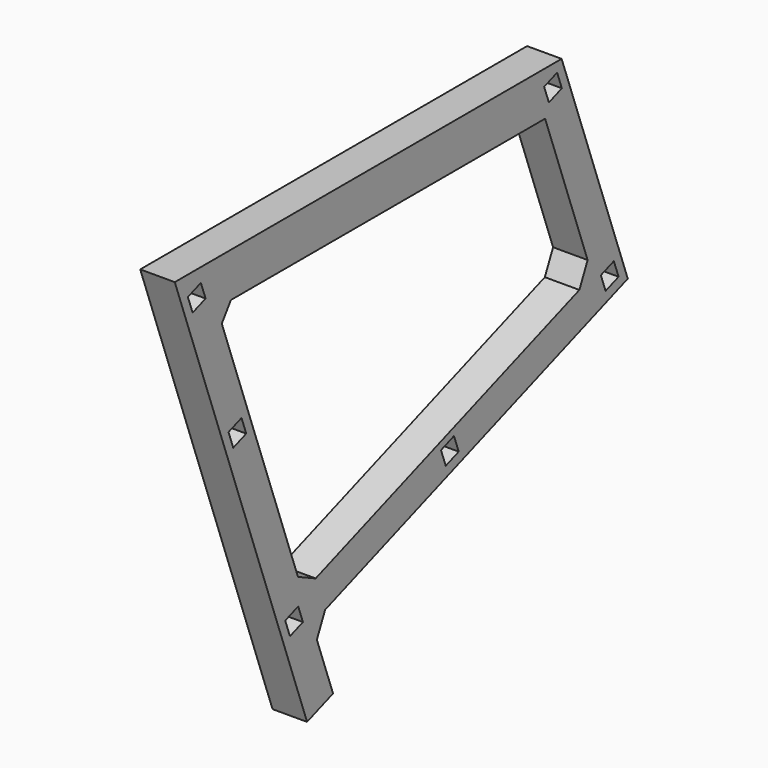
from build123d import *

# Parameters (mm, degrees)
PAD016_DEPTH            = 10
SKETCH029_W             = 5
SKETCH029_H             = 5
POCKET013_DEPTH         = 10
CHAMFER_SIZE            = 5
BODY008_PLACEMENT_ANGLE = 70


with BuildPart() as part:
    # Sketch030 → Pad016 (new body)
    with BuildSketch(Plane.YZ):
        Polygon((0, 0), (47.88282, 131.556967), (117.88282, 131.556967), (117.88282, 10), (140, 10), (140, 0), align=None)
        Polygon((57.88282, 121.556967), (17.279405, 10), (107.88282, 10), (107.88282, 121.556967), align=None, mode=Mode.SUBTRACT)
    extrude(amount=PAD016_DEPTH)

    # Sketch029 → Pocket013 (cut)
    with BuildSketch(Plane.YZ):
        with Locations((112.5, 5)):
            Rectangle(SKETCH029_W, SKETCH029_H)
        with Locations((9.5, 5)):
            Rectangle(SKETCH029_W, SKETCH029_H)
        with Locations((52.5, 126.56)):
            Rectangle(SKETCH029_W, SKETCH029_H)
        with Locations((112.5, 126.56)):
            Rectangle(SKETCH029_W, SKETCH029_H)
        with Locations((52.5, 5)):
            Rectangle(SKETCH029_W, SKETCH029_H)
        with Locations((112.5, 65)):
            Rectangle(SKETCH029_W, SKETCH029_H)
    extrude(amount=POCKET013_DEPTH, mode=Mode.SUBTRACT)

    # Chamfer
    chamfer_edges = [part.edges().sort_by_distance(p)[0] for p in [
        (5, 117.88282, 10),
        (5, 107.88282, 10),
        (5, 107.88282, 121.556967),
        (5, 17.279405, 10),
    ]]
    chamfer(chamfer_edges, length=CHAMFER_SIZE)


with BuildPart() as part_1:
    # Body008 placement: moved
    add(part.part.moved(Location((-24, -19.731529, -6.864937))).rotate(Axis((-24, -19.731529, -6.864937), (-1, 0, 0)), BODY008_PLACEMENT_ANGLE))


solid = part_1.part
